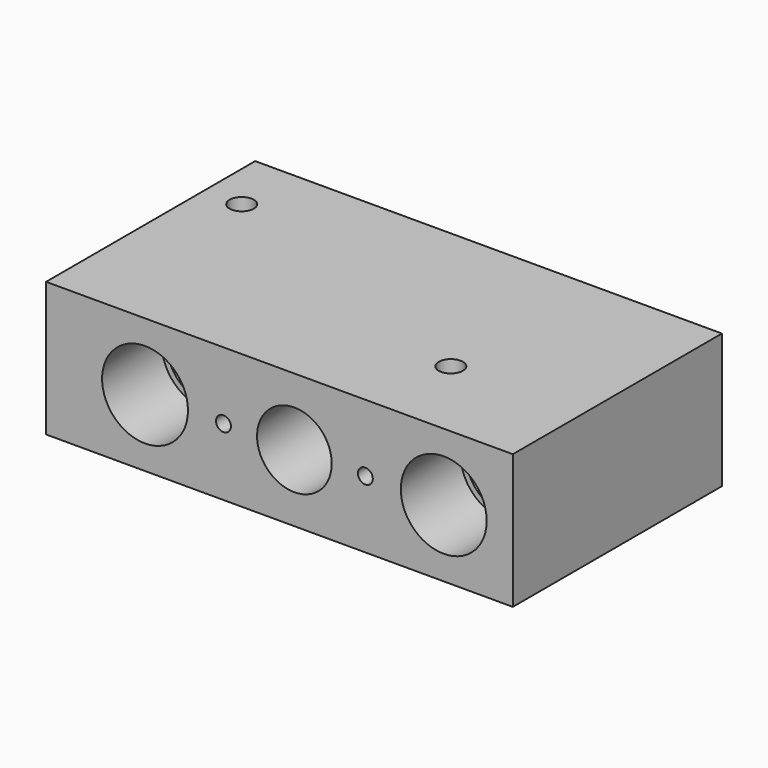
from build123d import *

# Parameters (mm, degrees)
F0_W      = 125
F0_H      = 70
F1_DEPTH  = 36
F2_R      = 10
F3_DEPTH  = 70.001
F4_R      = 11.5
F5_DEPTH  = 20
F6_R      = 11.5
F7_DEPTH  = 20
F8_R      = 3.25
F8_R_2    = 12.900097
F9_DEPTH  = 36.001
F10_R     = 2
F11_DEPTH = 20


with BuildPart() as f1:
    # F0 (on Top) → F1 (new body)
    with BuildSketch(Plane.XY):
        with Locations((62.5, 35)):
            Rectangle(F0_W, F0_H)
    extrude(amount=F1_DEPTH)

    # F2 (on face) → F3 (cut, through all)
    with BuildSketch(Plane.XZ):
        with Locations((26.5, 18)):
            Circle(F2_R)
        with Locations((66.5, 18)):
            Circle(F2_R)
        with Locations((106.5, 18)):
            Circle(F2_R)
    extrude(amount=-F3_DEPTH, mode=Mode.SUBTRACT)

    # F4 (on face) → F5 (cut)
    with BuildSketch(Plane.XZ):
        with Locations((26.5, 18)):
            Circle(F4_R)
        with Locations((106.5, 18)):
            Circle(F4_R)
    extrude(amount=-F5_DEPTH, mode=Mode.SUBTRACT)

    # F6 (on face) → F7 (cut)
    with BuildSketch(Plane(origin=(0, 70, 0), x_dir=(-1, 0, 0), z_dir=(0, 1, 0))):
        with Locations((-106.5, 18)):
            Circle(F6_R)
        with Locations((-26.5, 18)):
            Circle(F6_R)
    extrude(amount=-F7_DEPTH, mode=Mode.SUBTRACT)

    # F8 (on face) → F9 (cut, through all)
    with BuildSketch(Plane(origin=(0, 0, 0), x_dir=(1, 0, 0), z_dir=(0, 0, -1))):
        with Locations((90, -23)):
            Circle(F8_R)
        with Locations((125.049993, 12.9)):
            Circle(F8_R_2)
        with Locations((10, -53)):
            Circle(F8_R)
    extrude(amount=-F9_DEPTH, mode=Mode.SUBTRACT)

    # F10 (on face) → F11 (cut)
    with BuildSketch(Plane.XZ):
        with Locations((47.5, 18)):
            Circle(F10_R)
        with Locations((85.5, 18)):
            Circle(F10_R)
    extrude(amount=-F11_DEPTH, mode=Mode.SUBTRACT)


solid = f1.part
